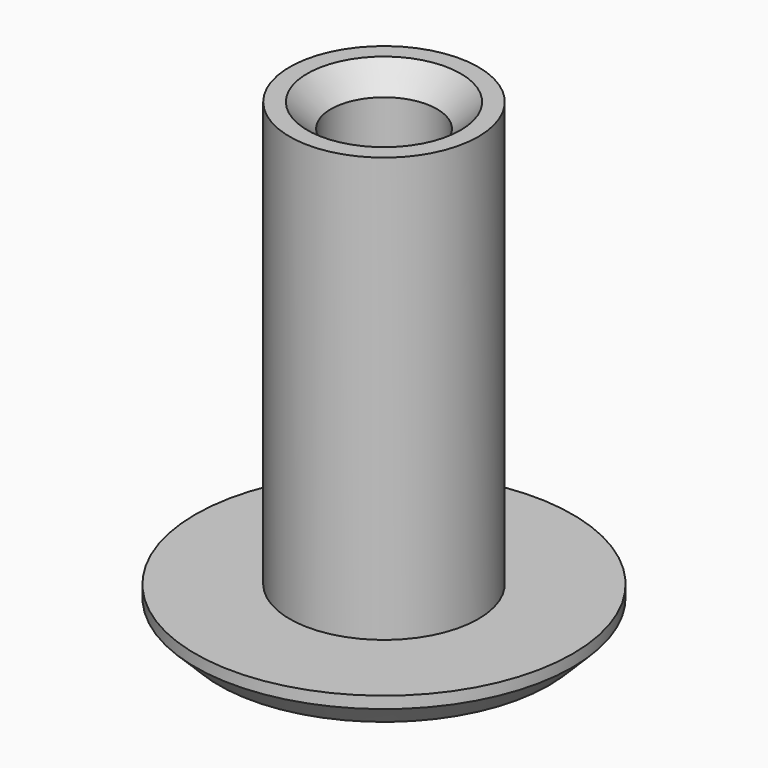
from build123d import *

# Parameters (mm, degrees)
F0_R     = 2
F0_R_2   = 1.125
F1_DEPTH = 9
F0_R_3   = 4
F2_DEPTH = 0.75
F3_SIZE  = 0.5


with BuildPart() as f1:
    # F0 (on Top) → F1 (new body)
    with BuildSketch(Plane.XY):
        Circle(F0_R)
        Circle(F0_R_2, mode=Mode.SUBTRACT)
    extrude(amount=F1_DEPTH)

    # F0 (on Top) → F2 (join)
    with BuildSketch(Plane.XY):
        Circle(F0_R_3)
        Circle(F0_R, mode=Mode.SUBTRACT)
        Circle(F0_R)
        Circle(F0_R_2, mode=Mode.SUBTRACT)
    extrude(amount=-F2_DEPTH)

    # F3
    f3_edges = [f1.edges().sort_by_distance(p)[0] for p in [
        (-1.125, 0, 9),
        (1.125, 0, 4.125),
        (-1.125, 0, -0.75),
        (-4, 0, -0.75),
    ]]
    chamfer(f3_edges, length=F3_SIZE)


solid = f1.part
